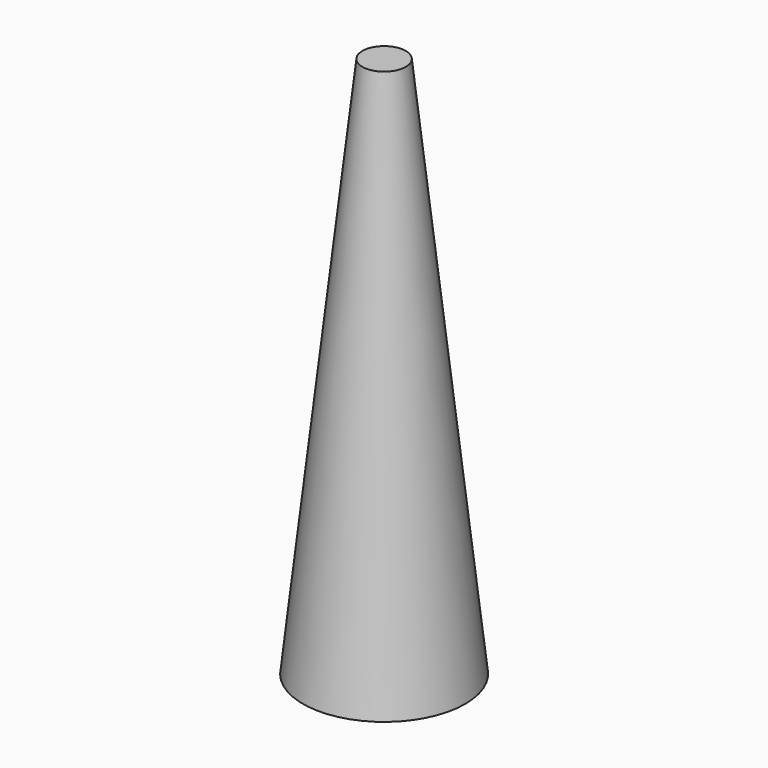
from build123d import *


with BuildPart() as part:
    # Cone → Cone (revolve)
    with BuildSketch(Plane.XZ):
        Polygon((0, 0), (3, 0), (0.8, 20), (0, 20), align=None)
    revolve(axis=Axis((0, 0, 0), (0, 0, 1)))


solid = part.part
